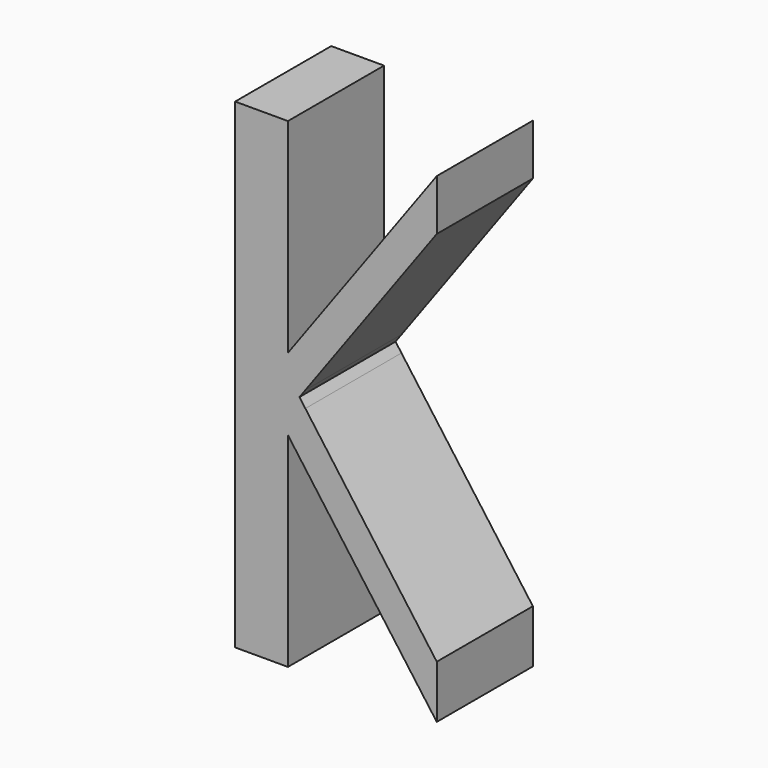
from build123d import *

# Parameters (mm, degrees)
F1_DEPTH = 25.4


with BuildPart() as f1:
    # F0 (on Front) → F1 (new body)
    with BuildSketch(Plane.XZ):
        Polygon((-5.5820390541, -50.8), (5.5820390541, -50.8), (5.5820390541, -7.6538990626), (0, 0), (5.5820390541, 7.6538990626), (5.5820390541, 50.8), (-5.5820390541, 50.8), align=None)
        Polygon((9.267564863, 12.7073646976), (9.267564863, 1.9308802238), (37.0487749617, 40.0235155262), (37.0487749617, 50.8), align=None)
        Polygon((9.267564863, -1.4998204787), (9.267564863, -12.7073646976), (37.0487749617, -50.8), (37.0487749617, -39.5924557811), align=None)
        Polygon((5.5820390541, -3.1225854113), (5.5820390541, -7.6538990626), (9.267564863, -12.7073646976), (9.267564863, -1.4998204787), (8.0165485412, 0.2155298725), align=None)
        Polygon((5.5820390541, 7.6538990626), (5.5820390541, 3.5536451563), (8.0165485412, 0.2155298725), (9.267564863, 1.9308802238), (9.267564863, 12.7073646976), align=None)
        Polygon((0, 0), (5.5820390541, -7.6538990626), (5.5820390541, -3.1225854113), (5.5820390541, 3.5536451563), (5.5820390541, 7.6538990626), align=None)
        Polygon((5.5820390541, 3.5536451563), (5.5820390541, -3.1225854113), (8.0165485412, 0.2155298725), align=None)
    extrude(amount=F1_DEPTH)


solid = f1.part
